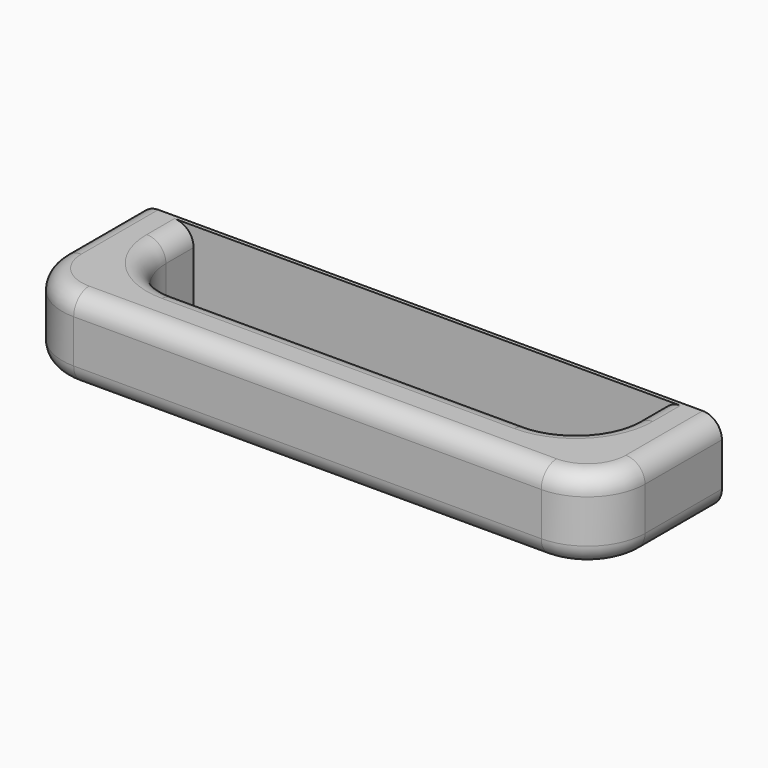
from build123d import *

# Parameters (mm, degrees)
SKETCH014_W     = 151.632408
SKETCH014_H     = 21.2714
PAD009_DEPTH    = 40
SKETCH015_W     = 121.632408
SKETCH015_H     = 24
POCKET005_DEPTH = 21.2724
FILLET006_R     = 15
FILLET007_R     = 5


with BuildPart() as part:
    # Sketch014 (on Face1 of CopyPocket004) → Pad009 (new body)
    with BuildSketch(Plane.XZ.offset(825)):
        with Locations((-597.5, -509.507206)):
            Rectangle(SKETCH014_W, SKETCH014_H)
    extrude(amount=PAD009_DEPTH)

    # Sketch015 (on Face4 of Pad009) → Pocket005 (cut, through all)
    with BuildSketch(Plane(origin=(0, 0, -498.871506), x_dir=(-1, 0, 0), z_dir=(0, 0, 1))):
        with Locations((597.5, 838)):
            Rectangle(SKETCH015_W, SKETCH015_H)
    extrude(amount=-POCKET005_DEPTH, mode=Mode.SUBTRACT)

    # Fillet006
    fillet006_edges = [part.edges().sort_by_distance(p)[0] for p in [
        (-658.316204, -850, -509.507206),
        (-536.683796, -850, -509.507206),
        (-673.316204, -865, -509.507206),
        (-521.683796, -865, -509.507206),
    ]]
    fillet(fillet006_edges, radius=FILLET006_R)

    # Fillet007
    fillet007_edges = [part.edges().sort_by_distance(p)[0] for p in [
        (-597.5, -850, -498.871506),
        (-673.316204, -837.5, -498.871506),
        (-597.5, -865, -520.142906),
        (-673.316204, -837.5, -520.142906),
    ]]
    fillet(fillet007_edges, radius=FILLET007_R)


solid = part.part
